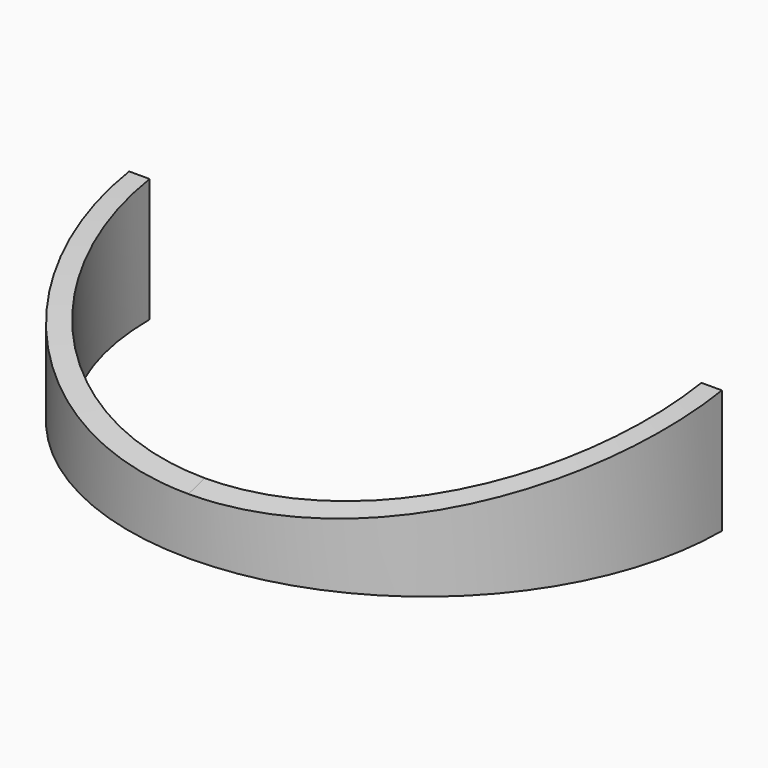
from build123d import *

# Parameters (mm, degrees)
F1_DEPTH = 20
F3_DEPTH = 50


with BuildPart() as f1:
    # F0 (on Top) → F1 (new body)
    with BuildSketch(Plane.XY):
        with BuildLine():
            Line((-27, -45), (-29, -45))
            ThreePointArc((-29, -45), (0, -74), (29, -45))
            Line((29, -45), (27, -45))
            ThreePointArc((27, -45), (0, -72), (-27, -45))
        make_face()
    extrude(amount=F1_DEPTH)

    # F2 (on Right) → F3 (cut, symmetric)
    with BuildSketch(Plane.YZ):
        with BuildLine():
            Line((-93.3947563171, 5.5357594974), (-74.0087032318, 5.5357594974))
            add(Edge.make_bspline(
                [(-74.0087032318, 5.5357594974), (-68.9633540388, 6.9435054036), (-56.8486293801, 10.3237380475), (-24.4086746927, 15.7311099248), (31.1790782781, 15.120430092), (65.3938407392, 3.4771576617), (81.6837946508, 1.0651610488), (88.8775959611, 0)],
                knots=[0, 0, 0, 0, 0.1454713146, 0.3493008817, 0.6164832657, 0.8306352983, 1, 1, 1, 1], degree=3))
            Line((88.8775959611, 0), (88.8775959611, 32.6551534235))
            Line((88.8775959611, 32.6551534235), (-93.3947563171, 32.6551534235))
            Line((-93.3947563171, 32.6551534235), (-93.3947563171, 5.5357594974))
        make_face()
    extrude(amount=F3_DEPTH, both=True, mode=Mode.SUBTRACT)


solid = f1.part
